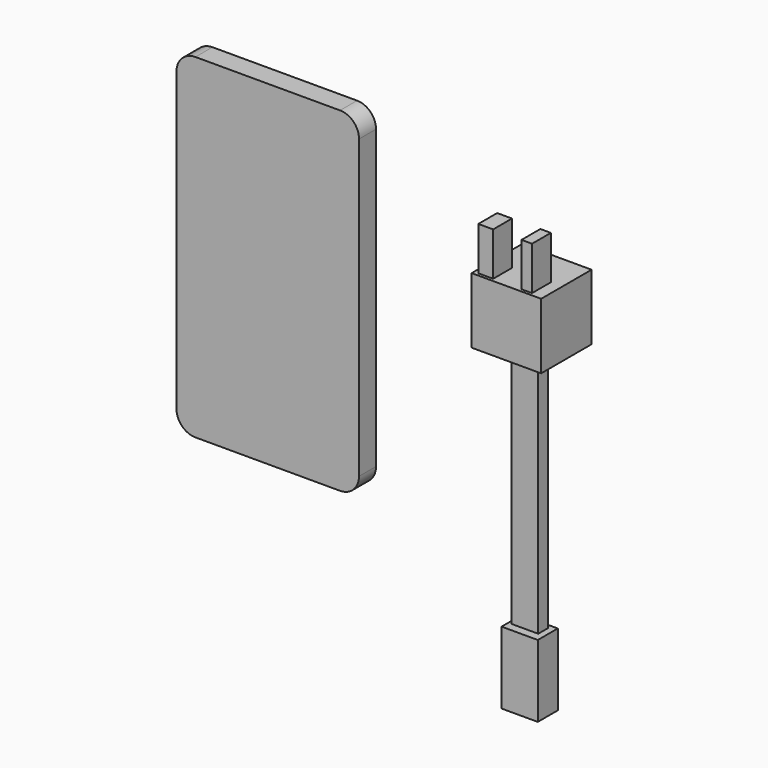
from build123d import *

# Parameters (mm, degrees)
F1_DEPTH  = 7.112
F4_W      = 23.2562273741
F4_H      = 21.9687595963
F5_DEPTH  = 21.082
F7_W      = 4.9568153918
F7_H      = 14.5456399769
F8_DEPTH  = 7.874
F7_W_2    = 3.5126581788
F9_W      = 8.9396610856
F9_H      = 4.1718445718
F10_DEPTH = 81.28
F12_W     = 12.1138878167
F12_H     = 8.3642441314
F12_W_2   = 8.9396610856
F12_H_2   = 4.1718445718
F13_DEPTH = 24.13


with BuildPart() as f1:
    # F0 (on Front) → F1 (new body)
    with BuildSketch(Plane.XZ):
        with BuildLine():
            ThreePointArc((-46.6920131981, 55.5749163032), (-51.1821412587, 53.7150443637), (-53.0420131981, 49.2249163032))
            Line((-53.0420131981, 49.2249163032), (-53.0420131981, -50.118885392))
            ThreePointArc((-53.0420131981, -50.118885392), (-51.1821412587, -54.6090134525), (-46.6920131981, -56.468885392))
            Line((-46.6920131981, -56.468885392), (1.6956985161, -56.468885392))
            ThreePointArc((1.6956985161, -56.468885392), (6.1858265766, -54.6090134525), (8.0456985161, -50.118885392))
            Line((8.0456985161, -50.118885392), (8.0456985161, 49.2249163032))
            ThreePointArc((8.0456985161, 49.2249163032), (6.1858265766, 53.7150443637), (1.6956985161, 55.5749163032))
            Line((1.6956985161, 55.5749163032), (-46.6920131981, 55.5749163032))
        make_face()
        with BuildLine():
            ThreePointArc((-50.0621236861, 39.0932964325), (-48.2022517466, 43.583424493), (-43.7121236861, 45.4432964325))
            Line((-43.7121236861, 45.4432964325), (-2.476143029, 45.4432964325))
            ThreePointArc((-2.476143029, 45.4432964325), (2.0139850316, 43.583424493), (3.873856971, 39.0932964325))
            Line((3.873856971, 39.0932964325), (3.873856971, -39.9872655213))
            ThreePointArc((3.873856971, -39.9872655213), (2.0139850316, -44.4773935818), (-2.476143029, -46.3372655213))
            Line((-2.476143029, -46.3372655213), (-43.7121236861, -46.3372655213))
            ThreePointArc((-43.7121236861, -46.3372655213), (-48.2022517466, -44.4773935818), (-50.0621236861, -39.9872655213))
            Line((-50.0621236861, -39.9872655213), (-50.0621236861, 39.0932964325))
        make_face(mode=Mode.SUBTRACT)
        with BuildLine():
            Line((-2.476143029, 45.4432964325), (-43.7121236861, 45.4432964325))
            ThreePointArc((-43.7121236861, 45.4432964325), (-48.2022517466, 43.583424493), (-50.0621236861, 39.0932964325))
            Line((-50.0621236861, 39.0932964325), (-50.0621236861, -39.9872655213))
            ThreePointArc((-50.0621236861, -39.9872655213), (-48.2022517466, -44.4773935818), (-43.7121236861, -46.3372655213))
            Line((-43.7121236861, -46.3372655213), (-2.476143029, -46.3372655213))
            ThreePointArc((-2.476143029, -46.3372655213), (2.0139850316, -44.4773935818), (3.873856971, -39.9872655213))
            Line((3.873856971, -39.9872655213), (3.873856971, 39.0932964325))
            ThreePointArc((3.873856971, 39.0932964325), (2.0139850316, 43.583424493), (-2.476143029, 45.4432964325))
        make_face()
    extrude(amount=-F1_DEPTH)


with BuildPart() as f5:
    # F4 (on Front) → F5 (new body)
    with BuildSketch(Plane.XZ):
        with Locations((57.3428422213, 10.9843797982)):
            Rectangle(F4_W, F4_H)
    extrude(amount=-F5_DEPTH)

    # F9 (on face) → F10 (join)
    with BuildSketch(Plane(origin=(0, 0, 0), x_dir=(1, 0, 0), z_dir=(0, 0, -1))):
        with Locations((58.4058053792, -8.4926821291)):
            Rectangle(F9_W, F9_H)
    extrude(amount=F10_DEPTH)


with BuildPart() as f8:
    # F7 (on Front) → F8 (new body)
    with BuildSketch(Plane.XZ):
        with Locations((50.4393633455, 29.9179041758)):
            Rectangle(F7_W, F7_H)
    extrude(amount=-F8_DEPTH)


with BuildPart() as f8b:
    # F7 (on Front) → F8, piece 2 (new body)
    with BuildSketch(Plane.XZ):
        with Locations((64.1649775207, 29.9179041758)):
            Rectangle(F7_W_2, F7_H)
    extrude(amount=-F8_DEPTH)


with BuildPart() as f13:
    # F12 (on face) → F13 (new body)
    with BuildSketch(Plane(origin=(0, 0, -81.28), x_dir=(1, 0, 0), z_dir=(0, 0, -1))):
        with Locations((58.9228775352, -7.7624699334)):
            Rectangle(F12_W, F12_H)
        with Locations((58.4058053792, -8.4926821291)):
            Rectangle(F12_W_2, F12_H_2, mode=Mode.SUBTRACT)
    extrude(amount=F13_DEPTH)


solid = Compound([f1.part, f5.part, f8.part, f8b.part, f13.part])
